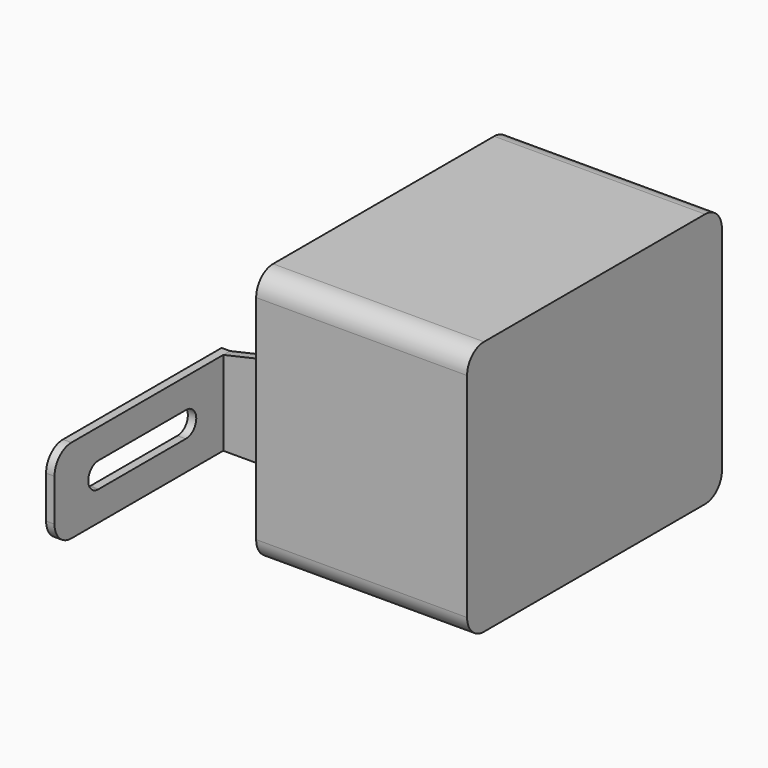
from build123d import *

# Parameters (mm, degrees)
F1_DEPTH = 50
F2_R     = 7.4
F2_R_2   = 3
F3_DEPTH = 28
F4_W     = 2
F4_H     = 27.5
F5_DEPTH = 33
F7_DEPTH = 2
F9_DEPTH = 25


with BuildPart() as f1:
    # F0 (on Right) → F1 (new body)
    with BuildSketch(Plane.YZ):
        with BuildLine():
            ThreePointArc((0, 5), (1.464466, 1.464466), (5, 0))
            Line((5, 0), (70.5, 0))
            ThreePointArc((70.5, 0), (74.035534, 1.464466), (75.5, 5))
            Line((75.5, 5), (75.5, 55.5))
            ThreePointArc((75.5, 55.5), (74.035534, 59.035534), (70.5, 60.5))
            Line((70.5, 60.5), (5, 60.5))
            ThreePointArc((5, 60.5), (1.464466, 59.035534), (0, 55.5))
            Line((0, 55.5), (0, 5))
        make_face()
    extrude(amount=F1_DEPTH)

    # F2 (on face) → F3 (join)
    with BuildSketch(Plane(origin=(0, 0, 0), x_dir=(0, -1, 0), z_dir=(-1, 0, 0))):
        with Locations((-53.5, 27.5)):
            Circle(F2_R)
        with Locations((-53.5, 27.5)):
            Circle(F2_R_2, mode=Mode.SUBTRACT)
    extrude(amount=F3_DEPTH)

    # F4 (on face) → F5 (join)
    with BuildSketch(Plane(origin=(0, 0, 0), x_dir=(0, -1, 0), z_dir=(-1, 0, 0))):
        with Locations((-32.5, 13.75)):
            Rectangle(F4_W, F4_H)
    extrude(amount=F5_DEPTH)

    # F6 (on face) → F7 (join)
    with BuildSketch(Plane(origin=(-33, 0, 0), x_dir=(0, -1, 0), z_dir=(-1, 0, 0))):
        with BuildLine():
            Line((-33.5, 20), (-33.5, 0))
            Line((-33.5, 0), (13.5, 0))
            ThreePointArc((13.5, 0), (17.035534, 1.464466), (18.5, 5))
            Line((18.5, 5), (18.5, 15))
            ThreePointArc((18.5, 15), (17.035534, 18.535534), (13.5, 20))
            Line((13.5, 20), (-33.5, 20))
        make_face()
        with BuildLine():
            ThreePointArc((5.610631, 7.002041), (5.5, 7), (5.389369, 7.002041))
            Line((5.389369, 7.002041), (-20.389369, 7.002041))
            ThreePointArc((-20.389369, 7.002041), (-23.499577, 9.949607), (-20.490135, 12.999984))
            Line((-20.490135, 12.999984), (5.499998, 13))
            ThreePointArc((5.499998, 13), (8.49949, 10.055326), (5.610631, 7.002041))
        make_face(mode=Mode.SUBTRACT)
    extrude(amount=F7_DEPTH)

    # F8 (on face) → F9 (cut)
    with BuildSketch(Plane(origin=(0, 33.5, 0), x_dir=(-1, 0, 0), z_dir=(0, 1, 0))):
        Polygon((0, 27.5), (33, 20), (42.120021, 30.809933), (19.240811, 38.767923), align=None)
    extrude(amount=-F9_DEPTH, mode=Mode.SUBTRACT)


solid = f1.part
